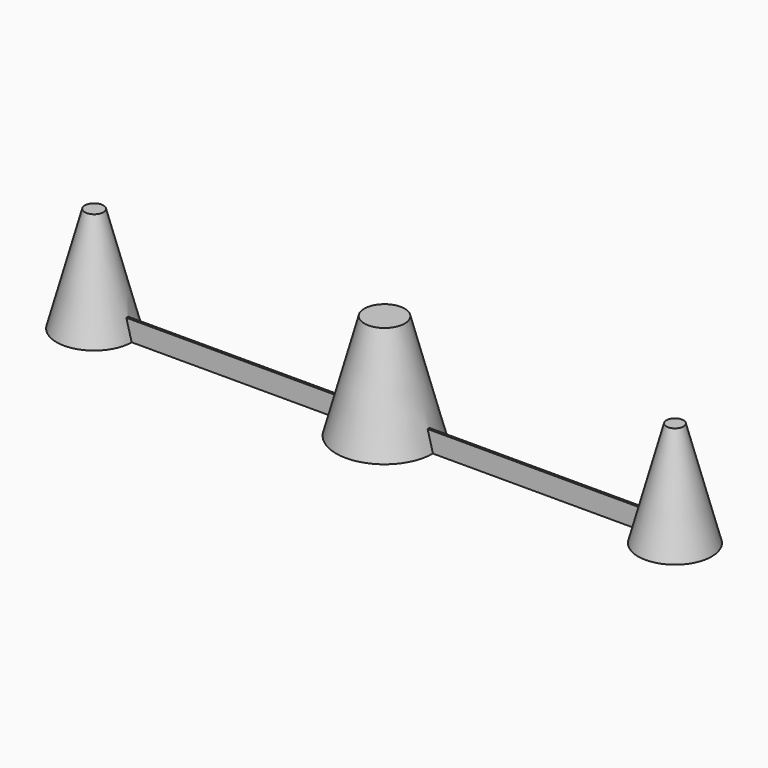
from build123d import *

# Parameters (mm, degrees)
F0_R     = 5.2549557128
F1_DEPTH = 11.43
F1_TAPER = 15
F0_R_2   = 3.9878
F0_R_3   = 4.0731099985
F3_DEPTH = 0.254


with BuildPart() as f1:
    # F0 (on Top) → F1 (new body)
    with BuildSketch(Plane.XY):
        Circle(F0_R)
    extrude(amount=F1_DEPTH, taper=F1_TAPER)



with BuildPart() as f1b:
    # F0 (on Top) → F1, piece 2 (new body)
    with BuildSketch(Plane.XY):
        with Locations((31.517803368, 0)):
            Circle(F0_R_2)
    extrude(amount=F1_DEPTH, taper=F1_TAPER)


with BuildPart() as f1c:
    # F0 (on Top) → F1, piece 3 (new body)
    with BuildSketch(Plane.XY):
        with Locations((-31.517803368, 0)):
            Circle(F0_R_3)
    extrude(amount=F1_DEPTH, taper=F1_TAPER)


with BuildPart() as f1_1:
    add(f1.part)

    add(f1b.part)  # F3 merges F1b

    add(f1c.part)  # F3 merges F1c
    # F2 (on Front) → F3 (join)
    with BuildSketch(Plane.XZ):
        Polygon((-31.5407924354, 2.1590758115), (-31.0882329941, 0), (0, 0), (32.4205830693, 0), (32.4205830693, 2.1590758115), (0, 2.1590758115), align=None)
    extrude(amount=-F3_DEPTH)


solid = f1_1.part
